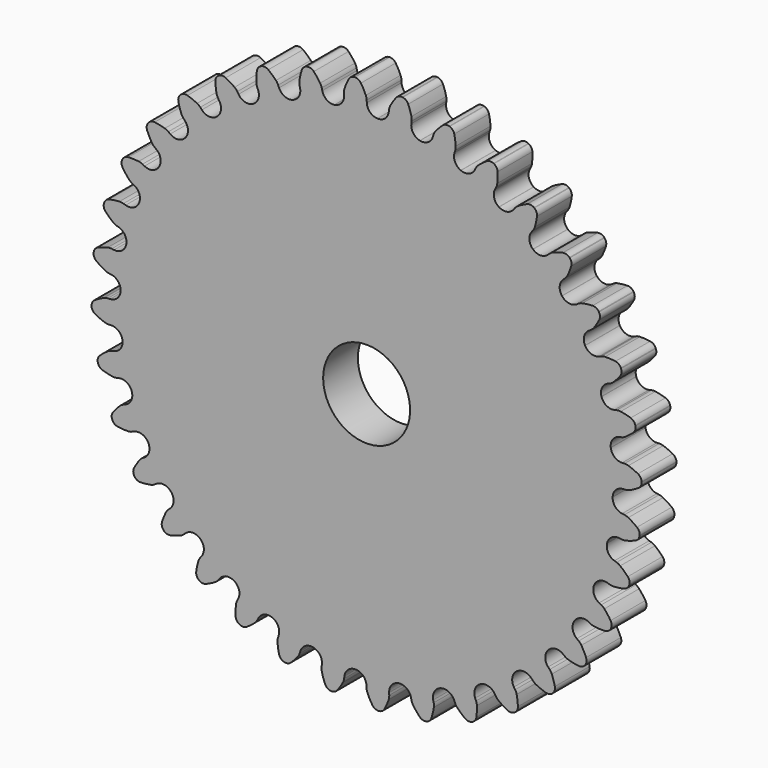
from build123d import *

# Parameters (mm, degrees)
F1_DEPTH = 6.35
F3_D     = 12.7


with BuildPart() as f1:
    # F0 (on Front) → F1 (new body)
    with BuildSketch(Plane.XZ):
        with BuildLine():
            ThreePointArc((-3.293315, 37.329325), (-3.666349, 36.230721), (-4.683682, 35.672942))
            ThreePointArc((-4.683682, 35.672942), (-4.696215, 35.671294), (-4.708747, 35.669642))
            ThreePointArc((-4.708747, 35.669642), (-5.83578, 35.94511), (-6.480442, 36.909732))
            Line((-6.480442, 36.909732), (-6.554691, 37.244647))
            ThreePointArc((-6.554691, 37.244647), (-6.644253, 37.524219), (-6.78338, 37.782725))
            ThreePointArc((-6.78338, 37.782725), (-7.226411, 38.396346), (-7.716763, 38.972855))
            ThreePointArc((-7.716763, 38.972855), (-8.152632, 39.251507), (-8.669208, 39.279413))
            Line((-8.669208, 39.279413), (-8.743227, 39.263003))
            ThreePointArc((-8.743227, 39.263003), (-9.19961, 39.019398), (-9.476878, 38.582647))
            ThreePointArc((-9.476878, 38.582647), (-9.677644, 37.852921), (-9.819839, 37.109558))
            ThreePointArc((-9.819839, 37.109558), (-9.836682, 36.816474), (-9.799701, 36.525246))
            Line((-9.799701, 36.525246), (-9.725452, 36.19033))
            ThreePointArc((-9.725452, 36.19033), (-9.902047, 35.04364), (-10.807067, 34.317677))
            ThreePointArc((-10.807067, 34.317677), (-10.819124, 34.313878), (-10.831179, 34.310074))
            ThreePointArc((-10.831179, 34.310074), (-11.988924, 34.38565), (-12.791297, 35.223673))
            Line((-12.791297, 35.223673), (-12.922575, 35.540607))
            ThreePointArc((-12.922575, 35.540607), (-13.059324, 35.800379), (-13.241227, 36.030799))
            ThreePointArc((-13.241227, 36.030799), (-13.784081, 36.558166), (-14.367093, 37.040768))
            ThreePointArc((-14.367093, 37.040768), (-14.844728, 37.239499), (-15.358301, 37.177278))
            Line((-15.358301, 37.177278), (-15.428347, 37.148265))
            ThreePointArc((-15.428347, 37.148265), (-15.835494, 36.82911), (-16.032709, 36.350848))
            ThreePointArc((-16.032709, 36.350848), (-16.10371, 35.597345), (-16.114661, 34.840583))
            ThreePointArc((-16.114661, 34.840583), (-16.080355, 34.549027), (-15.993364, 34.268645))
            Line((-15.993364, 34.268645), (-15.862085, 33.951711))
            ThreePointArc((-15.862085, 33.951711), (-15.836877, 32.791776), (-16.602086, 31.919686))
            ThreePointArc((-16.602086, 31.919686), (-16.6133, 31.913851), (-16.624511, 31.908013))
            ThreePointArc((-16.624511, 31.908013), (-17.777791, 31.7814), (-18.713495, 32.467361))
            Line((-18.713495, 32.467361), (-18.897814, 32.756684))
            ThreePointArc((-18.897814, 32.756684), (-19.077594, 32.988763), (-19.296745, 33.184095))
            ThreePointArc((-19.296745, 33.184095), (-19.922929, 33.609185), (-20.580887, 33.983216))
            ThreePointArc((-20.580887, 33.983216), (-21.085775, 34.095987), (-21.580741, 33.945531))
            Line((-21.580741, 33.945531), (-21.644684, 33.904795))
            ThreePointArc((-21.644684, 33.904795), (-21.990226, 33.519789), (-22.101395, 33.014546))
            ThreePointArc((-22.101395, 33.014546), (-22.040472, 32.260161), (-21.919847, 31.512995))
            ThreePointArc((-21.919847, 31.512995), (-21.835434, 31.231826), (-21.701076, 30.970809))
            Line((-21.701076, 30.970809), (-21.516757, 30.681486))
            ThreePointArc((-21.516757, 30.681486), (-21.290512, 29.54355), (-21.892658, 28.551833))
            ThreePointArc((-21.892658, 28.551833), (-21.902688, 28.544139), (-21.912716, 28.536442))
            ThreePointArc((-21.912716, 28.536442), (-23.026488, 28.211489), (-24.067093, 28.724544))
            Line((-24.067093, 28.724544), (-24.298852, 28.977465))
            ThreePointArc((-24.298852, 28.977465), (-24.516201, 29.174801), (-24.765942, 29.329109))
            ThreePointArc((-24.765942, 29.329109), (-25.456429, 29.639005), (-26.16934, 29.893101))
            ThreePointArc((-26.16934, 29.893101), (-26.68614, 29.916486), (-27.147461, 29.682366))
            Line((-27.147461, 29.682366), (-27.203358, 29.631145))
            ThreePointArc((-27.203358, 29.631145), (-27.476795, 29.191985), (-27.498541, 28.675114))
            ThreePointArc((-27.498541, 28.675114), (-27.307546, 27.942769), (-27.059009, 27.2279))
            ThreePointArc((-27.059009, 27.2279), (-26.927054, 26.965661), (-26.749413, 26.73194))
            Line((-26.749413, 26.73194), (-26.517653, 26.479019))
            ThreePointArc((-26.517653, 26.479019), (-26.097245, 25.397659), (-26.518033, 24.316446))
            ThreePointArc((-26.518033, 24.316446), (-26.526575, 24.307128), (-26.535114, 24.297806))
            ThreePointArc((-26.535114, 24.297806), (-27.575538, 23.784385), (-28.689424, 24.108947))
            Line((-28.689424, 24.108947), (-28.961582, 24.317781))
            ThreePointArc((-28.961582, 24.317781), (-29.209896, 24.474376), (-29.482638, 24.582974))
            ThreePointArc((-29.482638, 24.582974), (-30.216448, 24.76826), (-30.962652, 24.8947))
            ThreePointArc((-30.962652, 24.8947), (-31.475661, 24.827988), (-31.889318, 24.517317))
            Line((-31.889318, 24.517317), (-31.935473, 24.457168))
            ThreePointArc((-31.935473, 24.457168), (-32.128496, 23.977198), (-32.060157, 23.464403))
            ThreePointArc((-32.060157, 23.464403), (-31.744894, 22.77635), (-31.375997, 22.1155))
            ThreePointArc((-31.375997, 22.1155), (-31.200509, 21.880158), (-30.984982, 21.680835))
            Line((-30.984982, 21.680835), (-30.712824, 21.472001))
            ThreePointArc((-30.712824, 21.472001), (-30.111026, 20.480072), (-30.337671, 19.342216))
            ThreePointArc((-30.337671, 19.342216), (-30.344465, 19.331556), (-30.351255, 19.320894))
            ThreePointArc((-30.351255, 19.320894), (-31.286719, 18.634605), (-32.440042, 18.760812))
            Line((-32.440042, 18.760812), (-32.744329, 18.919213))
            ThreePointArc((-32.744329, 18.919213), (-33.016063, 19.03031), (-33.303519, 19.089897))
            ThreePointArc((-33.303519, 19.089897), (-34.058355, 19.144943), (-34.815179, 19.139885))
            ThreePointArc((-34.815179, 19.139885), (-35.30881, 18.985104), (-35.662235, 18.607322))
            Line((-35.662235, 18.607322), (-35.697244, 18.540072))
            ThreePointArc((-35.697244, 18.540072), (-35.803988, 18.033876), (-35.647642, 17.540738))
            ThreePointArc((-35.647642, 17.540738), (-35.217689, 16.917883), (-34.739642, 16.331131))
            ThreePointArc((-34.739642, 16.331131), (-34.525953, 16.129838), (-34.279088, 15.970969))
            Line((-34.279088, 15.970969), (-33.974801, 15.812568))
            ThreePointArc((-33.974801, 15.812568), (-33.209899, 14.940209), (-33.235515, 13.780283))
            ThreePointArc((-33.235515, 13.780283), (-33.240354, 13.768605), (-33.24519, 13.756926))
            ThreePointArc((-33.24519, 13.756926), (-34.047268, 12.918622), (-35.204986, 12.842639))
            Line((-35.204986, 12.842639), (-35.532156, 12.945795))
            ThreePointArc((-35.532156, 12.945795), (-35.819053, 13.008018), (-36.112489, 13.016783))
            ThreePointArc((-36.112489, 13.016783), (-36.865417, 12.939917), (-37.609864, 12.803515))
            ThreePointArc((-37.609864, 12.803515), (-38.069119, 12.565367), (-38.351573, 12.131952))
            Line((-38.351573, 12.131952), (-38.374372, 12.059645))
            ThreePointArc((-38.374372, 12.059645), (-38.391595, 11.542603), (-38.151992, 11.084106))
            ThreePointArc((-38.151992, 11.084106), (-37.620413, 10.545375), (-37.047739, 10.050549))
            ThreePointArc((-37.047739, 10.050549), (-36.802343, 9.88942), (-36.531641, 9.775833))
            Line((-36.531641, 9.775833), (-36.204471, 9.672677))
            ThreePointArc((-36.204471, 9.672677), (-35.299706, 8.946395), (-35.123513, 7.799643))
            ThreePointArc((-35.123513, 7.799643), (-35.126252, 7.787303), (-35.128986, 7.774961))
            ThreePointArc((-35.128986, 7.774961), (-35.773309, 6.810113), (-36.900244, 6.534248))
            Line((-36.900244, 6.534248), (-37.240356, 6.579025))
            ThreePointArc((-37.240356, 6.579025), (-37.5337, 6.590484), (-37.8242, 6.548161))
            ThreePointArc((-37.8242, 6.548161), (-38.552341, 6.341718), (-39.261793, 6.078116))
            ThreePointArc((-39.261793, 6.078116), (-39.672716, 5.763838), (-39.875618, 5.28796))
            Line((-39.875618, 5.28796), (-39.885514, 5.212792))
            ThreePointArc((-39.885514, 5.212792), (-39.812692, 4.700615), (-39.497112, 4.29069))
            ThreePointArc((-39.497112, 4.29069), (-38.88006, 3.852451), (-38.23016, 3.464586))
            ThreePointArc((-38.23016, 3.464586), (-37.960513, 3.348518), (-37.674199, 3.283663))
            Line((-37.674199, 3.283663), (-37.334087, 3.238887))
            ThreePointArc((-37.334087, 3.238887), (-36.31695, 2.68075), (-35.944302, 1.582015))
            ThreePointArc((-35.944302, 1.582015), (-35.944856, 1.569386), (-35.945405, 1.556757))
            ThreePointArc((-35.945405, 1.556757), (-36.412395, 0.494682), (-37.474307, 0.027318))
            Line((-37.474307, 0.027318), (-37.817027, 0.012355))
            ThreePointArc((-37.817027, 0.012355), (-38.107904, -0.027299), (-38.386642, -0.119424))
            ThreePointArc((-38.386642, -0.119424), (-39.067872, -0.44917), (-39.720772, -0.831963))
            ThreePointArc((-39.720772, -0.831963), (-40.070879, -1.212823), (-40.188063, -1.716704))
            Line((-40.188063, -1.716704), (-40.184756, -1.792449))
            ThreePointArc((-40.184756, -1.792449), (-40.024101, -2.2842), (-39.642133, -2.633097))
            ThreePointArc((-39.642133, -2.633097), (-38.958355, -2.957528), (-38.250977, -3.226647))
            ThreePointArc((-38.250977, -3.226647), (-37.965271, -3.294127), (-37.672045, -3.308279))
            Line((-37.672045, -3.308279), (-37.329325, -3.293315))
            ThreePointArc((-37.329325, -3.293315), (-36.230721, -3.666349), (-35.672942, -4.683682))
            ThreePointArc((-35.672942, -4.683682), (-35.671294, -4.696215), (-35.669642, -4.708747))
            ThreePointArc((-35.669642, -4.708747), (-35.94511, -5.83578), (-36.909732, -6.480442))
            Line((-36.909732, -6.480442), (-37.244647, -6.554691))
            ThreePointArc((-37.244647, -6.554691), (-37.524219, -6.644253), (-37.782725, -6.78338))
            ThreePointArc((-37.782725, -6.78338), (-38.396346, -7.226411), (-38.972855, -7.716763))
            ThreePointArc((-38.972855, -7.716763), (-39.251507, -8.152632), (-39.279413, -8.669208))
            Line((-39.279413, -8.669208), (-39.263003, -8.743227))
            ThreePointArc((-39.263003, -8.743227), (-39.019398, -9.19961), (-38.582647, -9.476878))
            ThreePointArc((-38.582647, -9.476878), (-37.852921, -9.677644), (-37.109558, -9.819839))
            ThreePointArc((-37.109558, -9.819839), (-36.816474, -9.836682), (-36.525246, -9.799701))
            Line((-36.525246, -9.799701), (-36.19033, -9.725452))
            ThreePointArc((-36.19033, -9.725452), (-35.04364, -9.902047), (-34.317677, -10.807067))
            ThreePointArc((-34.317677, -10.807067), (-34.313878, -10.819124), (-34.310074, -10.831179))
            ThreePointArc((-34.310074, -10.831179), (-34.38565, -11.988924), (-35.223673, -12.791297))
            Line((-35.223673, -12.791297), (-35.540607, -12.922575))
            ThreePointArc((-35.540607, -12.922575), (-35.800379, -13.059324), (-36.030799, -13.241227))
            ThreePointArc((-36.030799, -13.241227), (-36.558166, -13.784081), (-37.040768, -14.367093))
            ThreePointArc((-37.040768, -14.367093), (-37.239499, -14.844728), (-37.177278, -15.358301))
            Line((-37.177278, -15.358301), (-37.148265, -15.428347))
            ThreePointArc((-37.148265, -15.428347), (-36.82911, -15.835494), (-36.350848, -16.032709))
            ThreePointArc((-36.350848, -16.032709), (-35.597345, -16.10371), (-34.840583, -16.114661))
            ThreePointArc((-34.840583, -16.114661), (-34.549027, -16.080355), (-34.268645, -15.993364))
            Line((-34.268645, -15.993364), (-33.951711, -15.862085))
            ThreePointArc((-33.951711, -15.862085), (-32.791776, -15.836877), (-31.919686, -16.602086))
            ThreePointArc((-31.919686, -16.602086), (-31.913851, -16.6133), (-31.908013, -16.624511))
            ThreePointArc((-31.908013, -16.624511), (-31.7814, -17.777791), (-32.467361, -18.713495))
            Line((-32.467361, -18.713495), (-32.756684, -18.897814))
            ThreePointArc((-32.756684, -18.897814), (-32.988763, -19.077594), (-33.184095, -19.296745))
            ThreePointArc((-33.184095, -19.296745), (-33.609185, -19.922929), (-33.983216, -20.580887))
            ThreePointArc((-33.983216, -20.580887), (-34.095987, -21.085775), (-33.945531, -21.580741))
            Line((-33.945531, -21.580741), (-33.904795, -21.644684))
            ThreePointArc((-33.904795, -21.644684), (-33.519789, -21.990226), (-33.014546, -22.101395))
            ThreePointArc((-33.014546, -22.101395), (-32.260161, -22.040472), (-31.512995, -21.919847))
            ThreePointArc((-31.512995, -21.919847), (-31.231826, -21.835434), (-30.970809, -21.701076))
            Line((-30.970809, -21.701076), (-30.681486, -21.516757))
            ThreePointArc((-30.681486, -21.516757), (-29.54355, -21.290512), (-28.551833, -21.892658))
            ThreePointArc((-28.551833, -21.892658), (-28.544139, -21.902688), (-28.536442, -21.912716))
            ThreePointArc((-28.536442, -21.912716), (-28.211489, -23.026488), (-28.724544, -24.067093))
            Line((-28.724544, -24.067093), (-28.977465, -24.298852))
            ThreePointArc((-28.977465, -24.298852), (-29.174801, -24.516201), (-29.329109, -24.765942))
            ThreePointArc((-29.329109, -24.765942), (-29.639005, -25.456429), (-29.893101, -26.16934))
            ThreePointArc((-29.893101, -26.16934), (-29.916486, -26.68614), (-29.682366, -27.147461))
            Line((-29.682366, -27.147461), (-29.631145, -27.203358))
            ThreePointArc((-29.631145, -27.203358), (-29.191985, -27.476795), (-28.675114, -27.498541))
            ThreePointArc((-28.675114, -27.498541), (-27.942769, -27.307546), (-27.2279, -27.059009))
            ThreePointArc((-27.2279, -27.059009), (-26.965661, -26.927054), (-26.73194, -26.749413))
            Line((-26.73194, -26.749413), (-26.479019, -26.517653))
            ThreePointArc((-26.479019, -26.517653), (-25.397659, -26.097245), (-24.316446, -26.518033))
            ThreePointArc((-24.316446, -26.518033), (-24.307128, -26.526575), (-24.297806, -26.535114))
            ThreePointArc((-24.297806, -26.535114), (-23.784385, -27.575538), (-24.108947, -28.689424))
            Line((-24.108947, -28.689424), (-24.317781, -28.961582))
            ThreePointArc((-24.317781, -28.961582), (-24.474376, -29.209896), (-24.582974, -29.482638))
            ThreePointArc((-24.582974, -29.482638), (-24.76826, -30.216448), (-24.8947, -30.962652))
            ThreePointArc((-24.8947, -30.962652), (-24.827988, -31.475661), (-24.517317, -31.889318))
            Line((-24.517317, -31.889318), (-24.457168, -31.935473))
            ThreePointArc((-24.457168, -31.935473), (-23.977198, -32.128496), (-23.464403, -32.060157))
            ThreePointArc((-23.464403, -32.060157), (-22.77635, -31.744894), (-22.1155, -31.375997))
            ThreePointArc((-22.1155, -31.375997), (-21.880158, -31.200509), (-21.680835, -30.984982))
            Line((-21.680835, -30.984982), (-21.472001, -30.712824))
            ThreePointArc((-21.472001, -30.712824), (-20.480072, -30.111026), (-19.342216, -30.337671))
            ThreePointArc((-19.342216, -30.337671), (-19.331556, -30.344465), (-19.320894, -30.351255))
            ThreePointArc((-19.320894, -30.351255), (-18.634605, -31.286719), (-18.760812, -32.440042))
            Line((-18.760812, -32.440042), (-18.919213, -32.744329))
            ThreePointArc((-18.919213, -32.744329), (-19.03031, -33.016063), (-19.089897, -33.303519))
            ThreePointArc((-19.089897, -33.303519), (-19.144943, -34.058355), (-19.139885, -34.815179))
            ThreePointArc((-19.139885, -34.815179), (-18.985104, -35.30881), (-18.607322, -35.662235))
            Line((-18.607322, -35.662235), (-18.540072, -35.697244))
            ThreePointArc((-18.540072, -35.697244), (-18.033876, -35.803988), (-17.540738, -35.647642))
            ThreePointArc((-17.540738, -35.647642), (-16.917883, -35.217689), (-16.331131, -34.739642))
            ThreePointArc((-16.331131, -34.739642), (-16.129838, -34.525953), (-15.970969, -34.279088))
            Line((-15.970969, -34.279088), (-15.812568, -33.974801))
            ThreePointArc((-15.812568, -33.974801), (-14.940209, -33.209899), (-13.780283, -33.235515))
            ThreePointArc((-13.780283, -33.235515), (-13.768605, -33.240354), (-13.756926, -33.24519))
            ThreePointArc((-13.756926, -33.24519), (-12.918622, -34.047268), (-12.842639, -35.204986))
            Line((-12.842639, -35.204986), (-12.945795, -35.532156))
            ThreePointArc((-12.945795, -35.532156), (-13.008018, -35.819053), (-13.016783, -36.112489))
            ThreePointArc((-13.016783, -36.112489), (-12.939917, -36.865417), (-12.803515, -37.609864))
            ThreePointArc((-12.803515, -37.609864), (-12.565367, -38.069119), (-12.131952, -38.351573))
            Line((-12.131952, -38.351573), (-12.059645, -38.374372))
            ThreePointArc((-12.059645, -38.374372), (-11.542603, -38.391595), (-11.084106, -38.151992))
            ThreePointArc((-11.084106, -38.151992), (-10.545375, -37.620413), (-10.050549, -37.047739))
            ThreePointArc((-10.050549, -37.047739), (-9.88942, -36.802343), (-9.775833, -36.531641))
            Line((-9.775833, -36.531641), (-9.672677, -36.204471))
            ThreePointArc((-9.672677, -36.204471), (-8.946395, -35.299706), (-7.799643, -35.123513))
            ThreePointArc((-7.799643, -35.123513), (-7.787303, -35.126252), (-7.774961, -35.128986))
            ThreePointArc((-7.774961, -35.128986), (-6.810113, -35.773309), (-6.534248, -36.900244))
            Line((-6.534248, -36.900244), (-6.579025, -37.240356))
            ThreePointArc((-6.579025, -37.240356), (-6.590484, -37.5337), (-6.548161, -37.8242))
            ThreePointArc((-6.548161, -37.8242), (-6.341718, -38.552341), (-6.078116, -39.261793))
            ThreePointArc((-6.078116, -39.261793), (-5.763838, -39.672716), (-5.28796, -39.875618))
            Line((-5.28796, -39.875618), (-5.212792, -39.885514))
            ThreePointArc((-5.212792, -39.885514), (-4.700615, -39.812692), (-4.29069, -39.497112))
            ThreePointArc((-4.29069, -39.497112), (-3.852451, -38.88006), (-3.464586, -38.23016))
            ThreePointArc((-3.464586, -38.23016), (-3.348518, -37.960513), (-3.283663, -37.674199))
            Line((-3.283663, -37.674199), (-3.238887, -37.334087))
            ThreePointArc((-3.238887, -37.334087), (-2.68075, -36.31695), (-1.582015, -35.944302))
            ThreePointArc((-1.582015, -35.944302), (-1.569386, -35.944856), (-1.556757, -35.945405))
            ThreePointArc((-1.556757, -35.945405), (-0.494682, -36.412395), (-0.027318, -37.474307))
            Line((-0.027318, -37.474307), (-0.012355, -37.817027))
            ThreePointArc((-0.012355, -37.817027), (0.027299, -38.107904), (0.119424, -38.386642))
            ThreePointArc((0.119424, -38.386642), (0.44917, -39.067872), (0.831963, -39.720772))
            ThreePointArc((0.831963, -39.720772), (1.212823, -40.070879), (1.716704, -40.188063))
            Line((1.716704, -40.188063), (1.792449, -40.184756))
            ThreePointArc((1.792449, -40.184756), (2.2842, -40.024101), (2.633097, -39.642133))
            ThreePointArc((2.633097, -39.642133), (2.957528, -38.958355), (3.226647, -38.250977))
            ThreePointArc((3.226647, -38.250977), (3.294127, -37.965271), (3.308279, -37.672045))
            Line((3.308279, -37.672045), (3.293315, -37.329325))
            ThreePointArc((3.293315, -37.329325), (3.666349, -36.230721), (4.683682, -35.672942))
            ThreePointArc((4.683682, -35.672942), (4.696215, -35.671294), (4.708747, -35.669642))
            ThreePointArc((4.708747, -35.669642), (5.83578, -35.94511), (6.480442, -36.909732))
            Line((6.480442, -36.909732), (6.554691, -37.244647))
            ThreePointArc((6.554691, -37.244647), (6.644253, -37.524219), (6.78338, -37.782725))
            ThreePointArc((6.78338, -37.782725), (7.226411, -38.396346), (7.716763, -38.972855))
            ThreePointArc((7.716763, -38.972855), (8.152632, -39.251507), (8.669208, -39.279413))
            Line((8.669208, -39.279413), (8.743227, -39.263003))
            ThreePointArc((8.743227, -39.263003), (9.19961, -39.019398), (9.476878, -38.582647))
            ThreePointArc((9.476878, -38.582647), (9.677644, -37.852921), (9.819839, -37.109558))
            ThreePointArc((9.819839, -37.109558), (9.836682, -36.816474), (9.799701, -36.525246))
            Line((9.799701, -36.525246), (9.725452, -36.19033))
            ThreePointArc((9.725452, -36.19033), (9.902047, -35.04364), (10.807067, -34.317677))
            ThreePointArc((10.807067, -34.317677), (10.819124, -34.313878), (10.831179, -34.310074))
            ThreePointArc((10.831179, -34.310074), (11.988924, -34.38565), (12.791297, -35.223673))
            Line((12.791297, -35.223673), (12.922575, -35.540607))
            ThreePointArc((12.922575, -35.540607), (13.059324, -35.800379), (13.241227, -36.030799))
            ThreePointArc((13.241227, -36.030799), (13.784081, -36.558166), (14.367093, -37.040768))
            ThreePointArc((14.367093, -37.040768), (14.844728, -37.239499), (15.358301, -37.177278))
            Line((15.358301, -37.177278), (15.428347, -37.148265))
            ThreePointArc((15.428347, -37.148265), (15.835494, -36.82911), (16.032709, -36.350848))
            ThreePointArc((16.032709, -36.350848), (16.10371, -35.597345), (16.114661, -34.840583))
            ThreePointArc((16.114661, -34.840583), (16.080355, -34.549027), (15.993364, -34.268645))
            Line((15.993364, -34.268645), (15.862085, -33.951711))
            ThreePointArc((15.862085, -33.951711), (15.836877, -32.791776), (16.602086, -31.919686))
            ThreePointArc((16.602086, -31.919686), (16.6133, -31.913851), (16.624511, -31.908013))
            ThreePointArc((16.624511, -31.908013), (17.777791, -31.7814), (18.713495, -32.467361))
            Line((18.713495, -32.467361), (18.897814, -32.756684))
            ThreePointArc((18.897814, -32.756684), (19.077594, -32.988763), (19.296745, -33.184095))
            ThreePointArc((19.296745, -33.184095), (19.922929, -33.609185), (20.580887, -33.983216))
            ThreePointArc((20.580887, -33.983216), (21.085775, -34.095987), (21.580741, -33.945531))
            Line((21.580741, -33.945531), (21.644684, -33.904795))
            ThreePointArc((21.644684, -33.904795), (21.990226, -33.519789), (22.101395, -33.014546))
            ThreePointArc((22.101395, -33.014546), (22.040472, -32.260161), (21.919847, -31.512995))
            ThreePointArc((21.919847, -31.512995), (21.835434, -31.231826), (21.701076, -30.970809))
            Line((21.701076, -30.970809), (21.516757, -30.681486))
            ThreePointArc((21.516757, -30.681486), (21.290512, -29.54355), (21.892658, -28.551833))
            ThreePointArc((21.892658, -28.551833), (21.902688, -28.544139), (21.912716, -28.536442))
            ThreePointArc((21.912716, -28.536442), (23.026488, -28.211489), (24.067093, -28.724544))
            Line((24.067093, -28.724544), (24.298852, -28.977465))
            ThreePointArc((24.298852, -28.977465), (24.516201, -29.174801), (24.765942, -29.329109))
            ThreePointArc((24.765942, -29.329109), (25.456429, -29.639005), (26.16934, -29.893101))
            ThreePointArc((26.16934, -29.893101), (26.68614, -29.916486), (27.147461, -29.682366))
            Line((27.147461, -29.682366), (27.203358, -29.631145))
            ThreePointArc((27.203358, -29.631145), (27.476795, -29.191985), (27.498541, -28.675114))
            ThreePointArc((27.498541, -28.675114), (27.307546, -27.942769), (27.059009, -27.2279))
            ThreePointArc((27.059009, -27.2279), (26.927054, -26.965661), (26.749413, -26.73194))
            Line((26.749413, -26.73194), (26.517653, -26.479019))
            ThreePointArc((26.517653, -26.479019), (26.097245, -25.397659), (26.518033, -24.316446))
            ThreePointArc((26.518033, -24.316446), (26.526575, -24.307128), (26.535114, -24.297806))
            ThreePointArc((26.535114, -24.297806), (27.575538, -23.784385), (28.689424, -24.108947))
            Line((28.689424, -24.108947), (28.961582, -24.317781))
            ThreePointArc((28.961582, -24.317781), (29.209896, -24.474376), (29.482638, -24.582974))
            ThreePointArc((29.482638, -24.582974), (30.216448, -24.76826), (30.962652, -24.8947))
            ThreePointArc((30.962652, -24.8947), (31.475661, -24.827988), (31.889318, -24.517317))
            Line((31.889318, -24.517317), (31.935473, -24.457168))
            ThreePointArc((31.935473, -24.457168), (32.128496, -23.977198), (32.060157, -23.464403))
            ThreePointArc((32.060157, -23.464403), (31.744894, -22.77635), (31.375997, -22.1155))
            ThreePointArc((31.375997, -22.1155), (31.200509, -21.880158), (30.984982, -21.680835))
            Line((30.984982, -21.680835), (30.712824, -21.472001))
            ThreePointArc((30.712824, -21.472001), (30.111026, -20.480072), (30.337671, -19.342216))
            ThreePointArc((30.337671, -19.342216), (30.344465, -19.331556), (30.351255, -19.320894))
            ThreePointArc((30.351255, -19.320894), (31.286719, -18.634605), (32.440042, -18.760812))
            Line((32.440042, -18.760812), (32.744329, -18.919213))
            ThreePointArc((32.744329, -18.919213), (33.016063, -19.03031), (33.303519, -19.089897))
            ThreePointArc((33.303519, -19.089897), (34.058355, -19.144943), (34.815179, -19.139885))
            ThreePointArc((34.815179, -19.139885), (35.30881, -18.985104), (35.662235, -18.607322))
            Line((35.662235, -18.607322), (35.697244, -18.540072))
            ThreePointArc((35.697244, -18.540072), (35.803988, -18.033876), (35.647642, -17.540738))
            ThreePointArc((35.647642, -17.540738), (35.217689, -16.917883), (34.739642, -16.331131))
            ThreePointArc((34.739642, -16.331131), (34.525953, -16.129838), (34.279088, -15.970969))
            Line((34.279088, -15.970969), (33.974801, -15.812568))
            ThreePointArc((33.974801, -15.812568), (33.209899, -14.940209), (33.235515, -13.780283))
            ThreePointArc((33.235515, -13.780283), (33.240354, -13.768605), (33.24519, -13.756926))
            ThreePointArc((33.24519, -13.756926), (34.047268, -12.918622), (35.204986, -12.842639))
            Line((35.204986, -12.842639), (35.532156, -12.945795))
            ThreePointArc((35.532156, -12.945795), (35.819053, -13.008018), (36.112489, -13.016783))
            ThreePointArc((36.112489, -13.016783), (36.865417, -12.939917), (37.609864, -12.803515))
            ThreePointArc((37.609864, -12.803515), (38.069119, -12.565367), (38.351573, -12.131952))
            Line((38.351573, -12.131952), (38.374372, -12.059645))
            ThreePointArc((38.374372, -12.059645), (38.391595, -11.542603), (38.151992, -11.084106))
            ThreePointArc((38.151992, -11.084106), (37.620413, -10.545375), (37.047739, -10.050549))
            ThreePointArc((37.047739, -10.050549), (36.802343, -9.88942), (36.531641, -9.775833))
            Line((36.531641, -9.775833), (36.204471, -9.672677))
            ThreePointArc((36.204471, -9.672677), (35.299706, -8.946395), (35.123513, -7.799643))
            ThreePointArc((35.123513, -7.799643), (35.126252, -7.787303), (35.128986, -7.774961))
            ThreePointArc((35.128986, -7.774961), (35.773309, -6.810113), (36.900244, -6.534248))
            Line((36.900244, -6.534248), (37.240356, -6.579025))
            ThreePointArc((37.240356, -6.579025), (37.5337, -6.590484), (37.8242, -6.548161))
            ThreePointArc((37.8242, -6.548161), (38.552341, -6.341718), (39.261793, -6.078116))
            ThreePointArc((39.261793, -6.078116), (39.672716, -5.763838), (39.875618, -5.28796))
            Line((39.875618, -5.28796), (39.885514, -5.212792))
            ThreePointArc((39.885514, -5.212792), (39.812692, -4.700615), (39.497112, -4.29069))
            ThreePointArc((39.497112, -4.29069), (38.88006, -3.852451), (38.23016, -3.464586))
            ThreePointArc((38.23016, -3.464586), (37.960513, -3.348518), (37.674199, -3.283663))
            Line((37.674199, -3.283663), (37.334087, -3.238887))
            ThreePointArc((37.334087, -3.238887), (36.31695, -2.68075), (35.944302, -1.582015))
            ThreePointArc((35.944302, -1.582015), (35.944856, -1.569386), (35.945405, -1.556757))
            ThreePointArc((35.945405, -1.556757), (36.412395, -0.494682), (37.474307, -0.027318))
            Line((37.474307, -0.027318), (37.817027, -0.012355))
            ThreePointArc((37.817027, -0.012355), (38.107904, 0.027299), (38.386642, 0.119424))
            ThreePointArc((38.386642, 0.119424), (39.067872, 0.44917), (39.720772, 0.831963))
            ThreePointArc((39.720772, 0.831963), (40.070879, 1.212823), (40.188063, 1.716704))
            Line((40.188063, 1.716704), (40.184756, 1.792449))
            ThreePointArc((40.184756, 1.792449), (40.024101, 2.2842), (39.642133, 2.633097))
            ThreePointArc((39.642133, 2.633097), (38.958355, 2.957528), (38.250977, 3.226647))
            ThreePointArc((38.250977, 3.226647), (37.965271, 3.294127), (37.672045, 3.308279))
            Line((37.672045, 3.308279), (37.329325, 3.293315))
            ThreePointArc((37.329325, 3.293315), (36.230721, 3.666349), (35.672942, 4.683682))
            ThreePointArc((35.672942, 4.683682), (35.671294, 4.696215), (35.669642, 4.708747))
            ThreePointArc((35.669642, 4.708747), (35.94511, 5.83578), (36.909732, 6.480442))
            Line((36.909732, 6.480442), (37.244647, 6.554691))
            ThreePointArc((37.244647, 6.554691), (37.524219, 6.644253), (37.782725, 6.78338))
            ThreePointArc((37.782725, 6.78338), (38.396346, 7.226411), (38.972855, 7.716763))
            ThreePointArc((38.972855, 7.716763), (39.251507, 8.152632), (39.279413, 8.669208))
            Line((39.279413, 8.669208), (39.263003, 8.743227))
            ThreePointArc((39.263003, 8.743227), (39.019398, 9.19961), (38.582647, 9.476878))
            ThreePointArc((38.582647, 9.476878), (37.852921, 9.677644), (37.109558, 9.819839))
            ThreePointArc((37.109558, 9.819839), (36.816474, 9.836682), (36.525246, 9.799701))
            Line((36.525246, 9.799701), (36.19033, 9.725452))
            ThreePointArc((36.19033, 9.725452), (35.04364, 9.902047), (34.317677, 10.807067))
            ThreePointArc((34.317677, 10.807067), (34.313878, 10.819124), (34.310074, 10.831179))
            ThreePointArc((34.310074, 10.831179), (34.38565, 11.988924), (35.223673, 12.791297))
            Line((35.223673, 12.791297), (35.540607, 12.922575))
            ThreePointArc((35.540607, 12.922575), (35.800379, 13.059324), (36.030799, 13.241227))
            ThreePointArc((36.030799, 13.241227), (36.558166, 13.784081), (37.040768, 14.367093))
            ThreePointArc((37.040768, 14.367093), (37.239499, 14.844728), (37.177278, 15.358301))
            Line((37.177278, 15.358301), (37.148265, 15.428347))
            ThreePointArc((37.148265, 15.428347), (36.82911, 15.835494), (36.350848, 16.032709))
            ThreePointArc((36.350848, 16.032709), (35.597345, 16.10371), (34.840583, 16.114661))
            ThreePointArc((34.840583, 16.114661), (34.549027, 16.080355), (34.268645, 15.993364))
            Line((34.268645, 15.993364), (33.951711, 15.862085))
            ThreePointArc((33.951711, 15.862085), (32.791776, 15.836877), (31.919686, 16.602086))
            ThreePointArc((31.919686, 16.602086), (31.913851, 16.6133), (31.908013, 16.624511))
            ThreePointArc((31.908013, 16.624511), (31.7814, 17.777791), (32.467361, 18.713495))
            Line((32.467361, 18.713495), (32.756684, 18.897814))
            ThreePointArc((32.756684, 18.897814), (32.988763, 19.077594), (33.184095, 19.296745))
            ThreePointArc((33.184095, 19.296745), (33.609185, 19.922929), (33.983216, 20.580887))
            ThreePointArc((33.983216, 20.580887), (34.095987, 21.085775), (33.945531, 21.580741))
            Line((33.945531, 21.580741), (33.904795, 21.644684))
            ThreePointArc((33.904795, 21.644684), (33.519789, 21.990226), (33.014546, 22.101395))
            ThreePointArc((33.014546, 22.101395), (32.260161, 22.040472), (31.512995, 21.919847))
            ThreePointArc((31.512995, 21.919847), (31.231826, 21.835434), (30.970809, 21.701076))
            Line((30.970809, 21.701076), (30.681486, 21.516757))
            ThreePointArc((30.681486, 21.516757), (29.54355, 21.290512), (28.551833, 21.892658))
            ThreePointArc((28.551833, 21.892658), (28.544139, 21.902688), (28.536442, 21.912716))
            ThreePointArc((28.536442, 21.912716), (28.211489, 23.026488), (28.724544, 24.067093))
            Line((28.724544, 24.067093), (28.977465, 24.298852))
            ThreePointArc((28.977465, 24.298852), (29.174801, 24.516201), (29.329109, 24.765942))
            ThreePointArc((29.329109, 24.765942), (29.639005, 25.456429), (29.893101, 26.16934))
            ThreePointArc((29.893101, 26.16934), (29.916486, 26.68614), (29.682366, 27.147461))
            Line((29.682366, 27.147461), (29.631145, 27.203358))
            ThreePointArc((29.631145, 27.203358), (29.191985, 27.476795), (28.675114, 27.498541))
            ThreePointArc((28.675114, 27.498541), (27.942769, 27.307546), (27.2279, 27.059009))
            ThreePointArc((27.2279, 27.059009), (26.965661, 26.927054), (26.73194, 26.749413))
            Line((26.73194, 26.749413), (26.479019, 26.517653))
            ThreePointArc((26.479019, 26.517653), (25.397659, 26.097245), (24.316446, 26.518033))
            ThreePointArc((24.316446, 26.518033), (24.307128, 26.526575), (24.297806, 26.535114))
            ThreePointArc((24.297806, 26.535114), (23.784385, 27.575538), (24.108947, 28.689424))
            Line((24.108947, 28.689424), (24.317781, 28.961582))
            ThreePointArc((24.317781, 28.961582), (24.474376, 29.209896), (24.582974, 29.482638))
            ThreePointArc((24.582974, 29.482638), (24.76826, 30.216448), (24.8947, 30.962652))
            ThreePointArc((24.8947, 30.962652), (24.827988, 31.475661), (24.517317, 31.889318))
            Line((24.517317, 31.889318), (24.457168, 31.935473))
            ThreePointArc((24.457168, 31.935473), (23.977198, 32.128496), (23.464403, 32.060157))
            ThreePointArc((23.464403, 32.060157), (22.77635, 31.744894), (22.1155, 31.375997))
            ThreePointArc((22.1155, 31.375997), (21.880158, 31.200509), (21.680835, 30.984982))
            Line((21.680835, 30.984982), (21.472001, 30.712824))
            ThreePointArc((21.472001, 30.712824), (20.480072, 30.111026), (19.342216, 30.337671))
            ThreePointArc((19.342216, 30.337671), (19.331556, 30.344465), (19.320894, 30.351255))
            ThreePointArc((19.320894, 30.351255), (18.634605, 31.286719), (18.760812, 32.440042))
            Line((18.760812, 32.440042), (18.919213, 32.744329))
            ThreePointArc((18.919213, 32.744329), (19.03031, 33.016063), (19.089897, 33.303519))
            ThreePointArc((19.089897, 33.303519), (19.144943, 34.058355), (19.139885, 34.815179))
            ThreePointArc((19.139885, 34.815179), (18.985104, 35.30881), (18.607322, 35.662235))
            Line((18.607322, 35.662235), (18.540072, 35.697244))
            ThreePointArc((18.540072, 35.697244), (18.033876, 35.803988), (17.540738, 35.647642))
            ThreePointArc((17.540738, 35.647642), (16.917883, 35.217689), (16.331131, 34.739642))
            ThreePointArc((16.331131, 34.739642), (16.129838, 34.525953), (15.970969, 34.279088))
            Line((15.970969, 34.279088), (15.812568, 33.974801))
            ThreePointArc((15.812568, 33.974801), (14.940209, 33.209899), (13.780283, 33.235515))
            ThreePointArc((13.780283, 33.235515), (13.768605, 33.240354), (13.756926, 33.24519))
            ThreePointArc((13.756926, 33.24519), (12.918622, 34.047268), (12.842639, 35.204986))
            Line((12.842639, 35.204986), (12.945795, 35.532156))
            ThreePointArc((12.945795, 35.532156), (13.008018, 35.819053), (13.016783, 36.112489))
            ThreePointArc((13.016783, 36.112489), (12.939917, 36.865417), (12.803515, 37.609864))
            ThreePointArc((12.803515, 37.609864), (12.565367, 38.069119), (12.131952, 38.351573))
            Line((12.131952, 38.351573), (12.059645, 38.374372))
            ThreePointArc((12.059645, 38.374372), (11.542603, 38.391595), (11.084106, 38.151992))
            ThreePointArc((11.084106, 38.151992), (10.545375, 37.620413), (10.050549, 37.047739))
            ThreePointArc((10.050549, 37.047739), (9.88942, 36.802343), (9.775833, 36.531641))
            Line((9.775833, 36.531641), (9.672677, 36.204471))
            ThreePointArc((9.672677, 36.204471), (8.946395, 35.299706), (7.799643, 35.123513))
            ThreePointArc((7.799643, 35.123513), (7.787303, 35.126252), (7.774961, 35.128986))
            ThreePointArc((7.774961, 35.128986), (6.810113, 35.773309), (6.534248, 36.900244))
            Line((6.534248, 36.900244), (6.579025, 37.240356))
            ThreePointArc((6.579025, 37.240356), (6.590484, 37.5337), (6.548161, 37.8242))
            ThreePointArc((6.548161, 37.8242), (6.341718, 38.552341), (6.078116, 39.261793))
            ThreePointArc((6.078116, 39.261793), (5.763838, 39.672716), (5.28796, 39.875618))
            Line((5.28796, 39.875618), (5.212792, 39.885514))
            ThreePointArc((5.212792, 39.885514), (4.700615, 39.812692), (4.29069, 39.497112))
            ThreePointArc((4.29069, 39.497112), (3.852451, 38.88006), (3.464586, 38.23016))
            ThreePointArc((3.464586, 38.23016), (3.348518, 37.960513), (3.283663, 37.674199))
            Line((3.283663, 37.674199), (3.238887, 37.334087))
            ThreePointArc((3.238887, 37.334087), (2.68075, 36.31695), (1.582015, 35.944302))
            ThreePointArc((1.582015, 35.944302), (1.569386, 35.944856), (1.556757, 35.945405))
            ThreePointArc((1.556757, 35.945405), (0.494682, 36.412395), (0.027318, 37.474307))
            Line((0.027318, 37.474307), (0.012355, 37.817027))
            ThreePointArc((0.012355, 37.817027), (-0.027299, 38.107904), (-0.119424, 38.386642))
            ThreePointArc((-0.119424, 38.386642), (-0.44917, 39.067872), (-0.831963, 39.720772))
            ThreePointArc((-0.831963, 39.720772), (-1.212823, 40.070879), (-1.716704, 40.188063))
            Line((-1.716704, 40.188063), (-1.754601, 40.186966))
            Line((-1.754601, 40.186966), (-1.792449, 40.184756))
            ThreePointArc((-1.792449, 40.184756), (-2.2842, 40.024101), (-2.633097, 39.642133))
            ThreePointArc((-2.633097, 39.642133), (-2.957528, 38.958355), (-3.226647, 38.250977))
            ThreePointArc((-3.226647, 38.250977), (-3.294127, 37.965271), (-3.308279, 37.672045))
            Line((-3.308279, 37.672045), (-3.293315, 37.329325))
        make_face()
    extrude(amount=F1_DEPTH)

    # F3 (through all)
    with Locations(Plane.XZ.offset(6.35)):
        with Locations((0, 0)):
            Hole(F3_D / 2)


solid = f1.part
